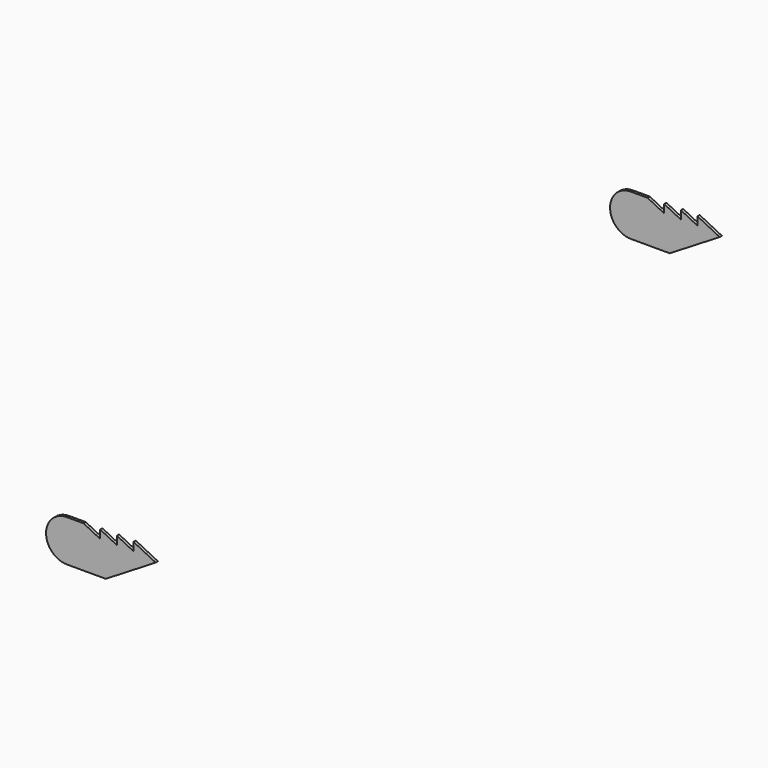
from build123d import *

# Parameters (mm, degrees)
PAD_DEPTH     = 6.35
ARRAY_Y_COUNT = 2
ARRAY_Y_PITCH = 1612.9


with BuildPart() as part:
    # Sketch → Pad (new body)
    with BuildSketch(Plane.XZ):
        with BuildLine():
            Line((88.9, 0), (203.2, 69.85))
            Line((203.2, 69.85), (152.4, 95.25))
            Line((152.4, 95.25), (152.4, 76.2))
            Line((152.4, 76.2), (114.3, 95.25))
            Line((114.3, 95.25), (114.3, 76.2))
            Line((114.3, 76.2), (76.2, 95.25))
            Line((76.2, 95.25), (76.2, 76.2))
            Line((76.2, 76.2), (38.1, 95.25))
            Line((0, 95.249945), (38.1, 95.25))
            ThreePointArc((0, 95.249945), (-47.624945, 47.625), (0, 5.5e-05))
            Line((0, 5.5e-05), (25.4, 0))
            Line((25.4, 0), (88.9, 0))
        make_face()
    extrude(amount=PAD_DEPTH)

    # Array Y: part ×2


with BuildPart() as part_1:
    add(part.part)
    with Locations(*[(0, i * ARRAY_Y_PITCH, 0) for i in range(1, ARRAY_Y_COUNT)]):
        add(part.part)


solid = part_1.part
